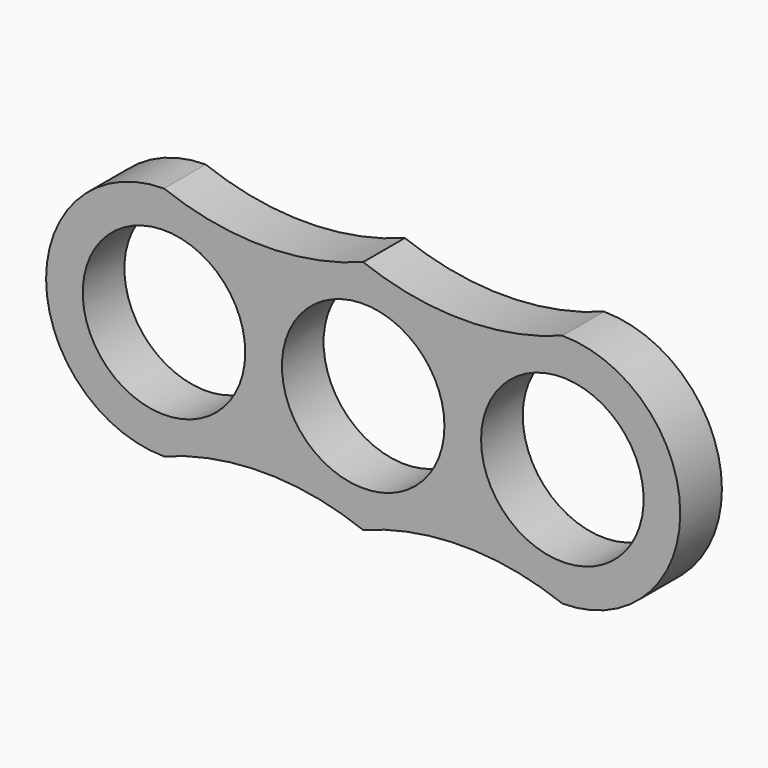
from build123d import *

# Parameters (mm, degrees)
F0_R     = 11.08
F1_DEPTH = 7.1


with BuildPart() as f1:
    # F0 (on Front) → F1 (new body)
    with BuildSketch(Plane.XZ):
        with BuildLine():
            ThreePointArc((38.23828, 0), (27.15828, 11.08), (16.07828, 0))
            ThreePointArc((16.07828, 0), (27.15828, -11.08), (38.23828, 0))
        make_face()
        with BuildLine():
            ThreePointArc((0, 16.08), (-13.58, 13.58), (-27.16, 16.08))
            ThreePointArc((-27.16, 16.08), (-43.24, 0), (-27.16, -16.08))
            ThreePointArc((-27.16, -16.08), (-13.58, -13.58), (0, -16.08))
            ThreePointArc((0, -16.08), (13.57914, -13.58), (27.15828, -16.08))
            ThreePointArc((27.15828, -16.08), (43.23828, 0), (27.15828, 16.08))
            ThreePointArc((27.15828, 16.08), (13.57914, 13.58), (0, 16.08))
        make_face()
        with Locations((-27.16, 0)):
            Circle(F0_R, mode=Mode.SUBTRACT)
        with BuildLine():
            ThreePointArc((-11.08, 0), (0, 11.08), (11.08, 0))
            ThreePointArc((11.08, 0), (0, -11.08), (-11.08, 0))
        make_face(mode=Mode.SUBTRACT)
        with BuildLine():
            ThreePointArc((38.23828, 0), (27.15828, -11.08), (16.07828, 0))
            ThreePointArc((16.07828, 0), (27.15828, 11.08), (38.23828, 0))
        make_face(mode=Mode.SUBTRACT)
    extrude(amount=F1_DEPTH)


solid = f1.part
